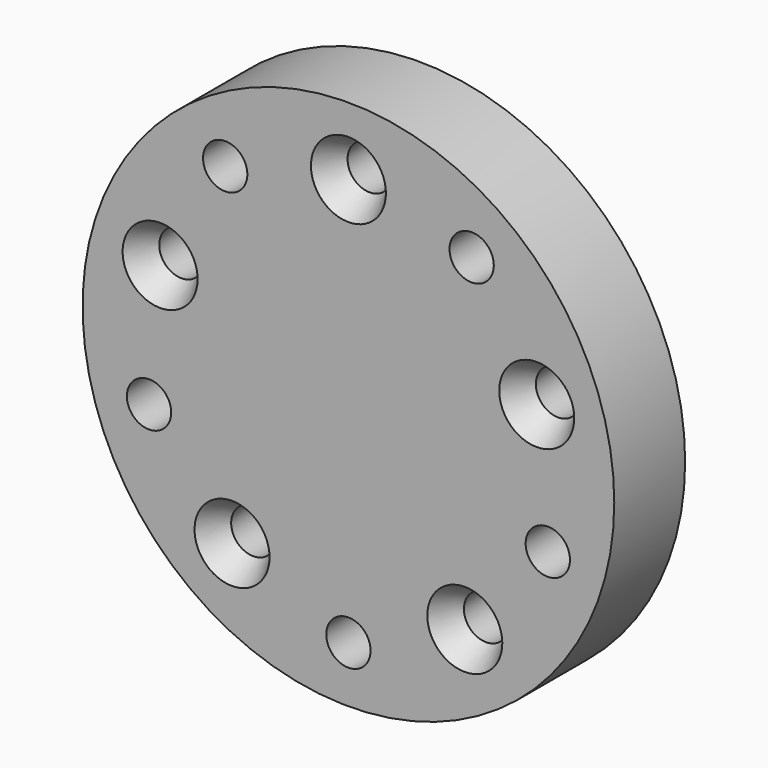
from build123d import *

# Parameters (mm, degrees)
F0_R     = 76.2
F0_R_2   = 6.35
F1_DEPTH = 25.4
F2_SIZE2 = 4.399409
F2_SIZE  = 7.62


with BuildPart() as f1:
    # F0 (on Front) → F1 (new body)
    with BuildSketch(Plane.XZ):
        Circle(F0_R)
        with Locations((-33.358385, -45.913877)):
            Circle(F0_R_2, mode=Mode.SUBTRACT)
        with Locations((-57.15, -18.569161)):
            Circle(F0_R_2, mode=Mode.SUBTRACT)
        with Locations((0, -60.091066)):
            Circle(F0_R_2, mode=Mode.SUBTRACT)
        with Locations((33.358385, -45.913877)):
            Circle(F0_R_2, mode=Mode.SUBTRACT)
        with Locations((57.15, -18.569161)):
            Circle(F0_R_2, mode=Mode.SUBTRACT)
        with Locations((-53.975, 17.537541)):
            Circle(F0_R_2, mode=Mode.SUBTRACT)
        with Locations((-35.320642, 48.614694)):
            Circle(F0_R_2, mode=Mode.SUBTRACT)
        with Locations((53.975, 17.537541)):
            Circle(F0_R_2, mode=Mode.SUBTRACT)
        with Locations((0, 56.752674)):
            Circle(F0_R_2, mode=Mode.SUBTRACT)
        with Locations((35.320642, 48.614694)):
            Circle(F0_R_2, mode=Mode.SUBTRACT)
    extrude(amount=F1_DEPTH)

    # F2
    f2_edges = [f1.edges().sort_by_distance(p)[0] for p in [
        (-6.35, -25.4, 56.752674),
        (47.625, -25.4, 17.537541),
        (27.008385, -25.4, -45.913877),
        (-39.708385, -25.4, -45.913877),
        (-60.325, -25.4, 17.537541),
    ]]
    chamfer(f2_edges, length=F2_SIZE, length2=F2_SIZE2)


solid = f1.part
